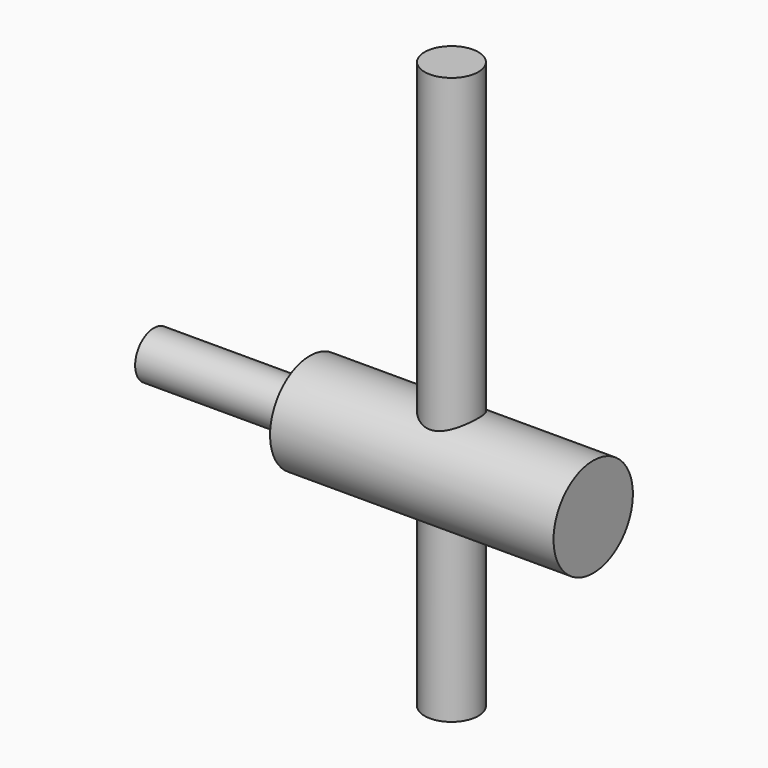
from build123d import *

# Parameters (mm, degrees)
CYLINDER001_R     = 1.65
CYLINDER001_DEPTH = 11
CYLINDER_R        = 3.5
CYLINDER_DEPTH    = 20
CYLINDER002_R     = 1.9
CYLINDER002_DEPTH = 40


with BuildPart() as cylinder001:
    # Cylinder001 → Cylinder001 (new body)
    with BuildSketch(Plane(origin=(-10, 0, 15), x_dir=(0, 0, 1), z_dir=(-1, 0, 0))):
        Circle(CYLINDER001_R)
    extrude(amount=CYLINDER001_DEPTH)


with BuildPart() as cylinder:
    # Cylinder → Cylinder (new body)
    with BuildSketch(Plane(origin=(10, 0, 15), x_dir=(0, 0, 1), z_dir=(-1, 0, 0))):
        Circle(CYLINDER_R)
    extrude(amount=CYLINDER_DEPTH)


with BuildPart() as bolt_slot:
    # Cylinder002 → Cylinder002 (new body)
    with BuildSketch(Plane.XY):
        Circle(CYLINDER002_R)
    extrude(amount=CYLINDER002_DEPTH)

    # Fusion001010002: union Cylinder001, Cylinder
    add(cylinder001.part)
    add(cylinder.part)


solid = bolt_slot.part
